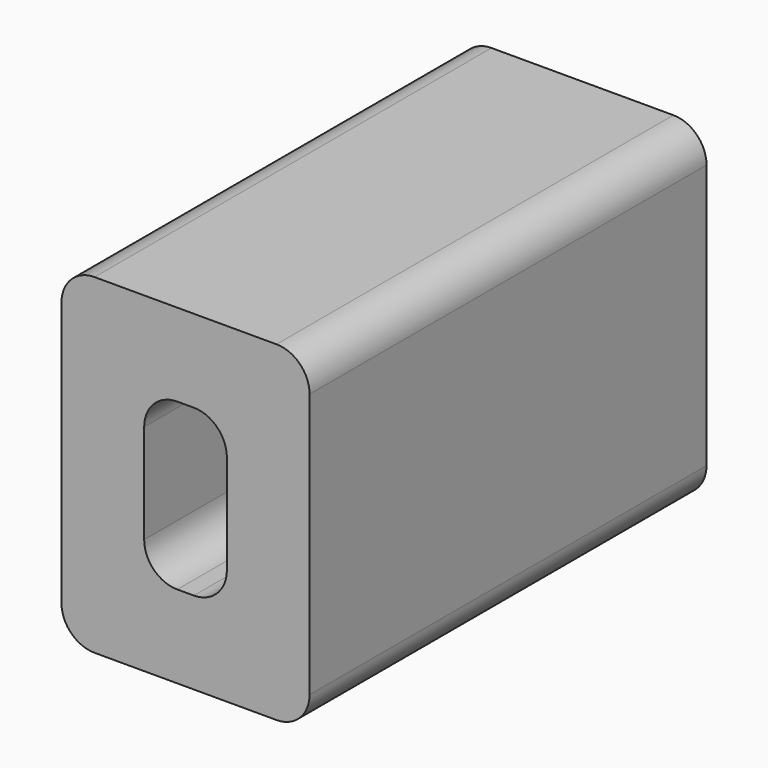
from build123d import *

# Parameters (mm, degrees)
F1_DEPTH = 30
F2_R     = 2.5
F3_DEPTH = 30


with BuildPart() as f1:
    # F0 (on Front) → F1 (new body)
    with BuildSketch(Plane.XZ):
        with BuildLine():
            ThreePointArc((7.5, 8), (6.914214, 9.414214), (5.5, 10))
            Line((5.5, 10), (-5.5, 10))
            ThreePointArc((-5.5, 10), (-6.914214, 9.414214), (-7.5, 8))
            Line((-7.5, 8), (-7.5, -8))
            ThreePointArc((-7.5, -8), (-6.914214, -9.414214), (-5.5, -10))
            Line((-5.5, -10), (5.5, -10))
            ThreePointArc((5.5, -10), (6.914214, -9.414214), (7.5, -8))
            Line((7.5, -8), (7.5, 8))
        make_face()
        with BuildLine():
            Line((-0.5, 5), (0.5, 5))
            ThreePointArc((0.5, 5), (1.914214, 4.414214), (2.5, 3))
            Line((2.5, 3), (2.5, -3))
            ThreePointArc((2.5, -3), (1.914214, -4.414214), (0.5, -5))
            Line((0.5, -5), (-0.5, -5))
            ThreePointArc((-0.5, -5), (-1.914214, -4.414214), (-2.5, -3))
            Line((-2.5, -3), (-2.5, 3))
            ThreePointArc((-2.5, 3), (-1.914214, 4.414214), (-0.5, 5))
        make_face(mode=Mode.SUBTRACT)
    extrude(amount=F1_DEPTH)

    # F2 (on Right) → F3 (cut)
    with BuildSketch(Plane.YZ):
        with Locations((-15, 0)):
            Circle(F2_R)
    extrude(amount=-F3_DEPTH, mode=Mode.SUBTRACT)


solid = f1.part
